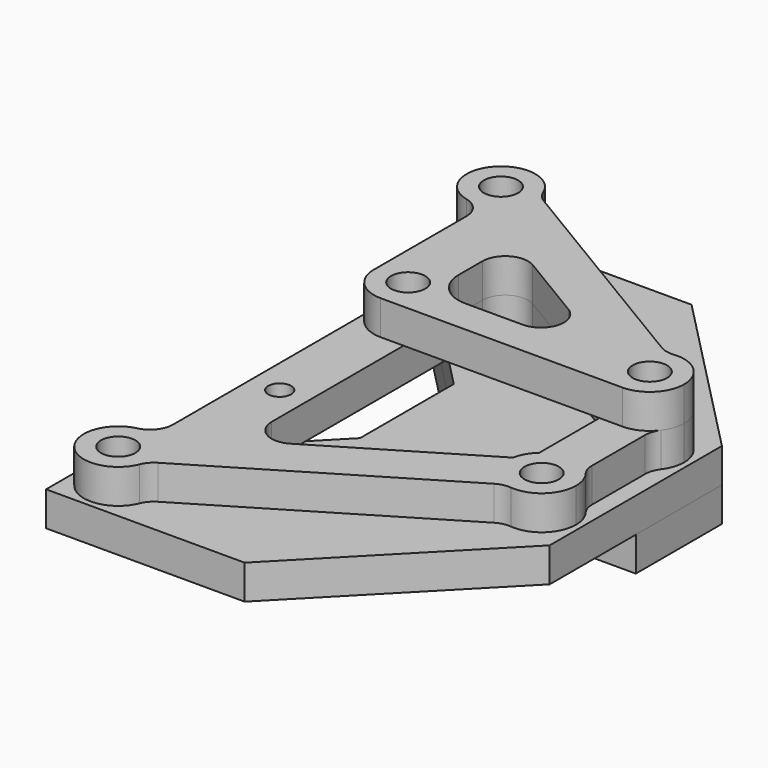
from build123d import *

# Parameters (mm, degrees)
F0_R      = 1.5
F1_DEPTH  = 3
F2_DEPTH  = 3
F3_R      = 1.5
F4_DEPTH  = 3
F5_R      = 2
F6_R      = 1.5
F7_DEPTH  = 3
F8_R      = 3
F9_R      = 1
F10_DEPTH = 3
F11_R     = 1.5
F12_DEPTH = 3


with BuildPart() as f1:
    # F0 (on Top) → F1 (new body)
    with BuildSketch(Plane.XY):
        Polygon((-3.5, 17.40274), (8.5, 5.1184529412), (8.5, 0), (28.5, 0), (28.5, 9.40274), (13.8471349914, 24.40274), (-3.5, 24.40274), align=None)
        with Locations((0, 20.90274)):
            Circle(F0_R, mode=Mode.SUBTRACT)
        with Locations((25, 5.90274)):
            Circle(F0_R, mode=Mode.SUBTRACT)
        Polygon((28.5, 0), (8.5, 0), (8.5, -5.1184529412), (-3.5, -17.40274), (-3.5, -24.40274), (13.8471349914, -24.40274), (28.5, -9.40274), align=None)
        with Locations((0, -20.90274)):
            Circle(F0_R, mode=Mode.SUBTRACT)
        with Locations((25, -5.90274)):
            Circle(F0_R, mode=Mode.SUBTRACT)
    extrude(amount=F1_DEPTH)


with BuildPart() as f2:
    # F0 (on Top) → F2 (new body)
    with BuildSketch(Plane.XY):
        Polygon((-3.5, 17.40274), (8.5, 5.1184529412), (8.5, 0), (28.5, 0), (28.5, 9.40274), (13.8471349914, 24.40274), (-3.5, 24.40274), align=None)
        with Locations((0, 20.90274)):
            Circle(F0_R, mode=Mode.SUBTRACT)
        with Locations((25, 5.90274)):
            Circle(F0_R, mode=Mode.SUBTRACT)
    extrude(amount=-F2_DEPTH)


with BuildPart() as f4:
    # F3 (on face) → F4 (new body)
    with BuildSketch(Plane.XY.offset(3)):
        with BuildLine():
            ThreePointArc((0.8884209613, 18.0373066653), (2.415084148, 19.1230297545), (3, 20.90274))
            ThreePointArc((3, 20.90274), (2.9865709391, 21.1862784022), (2.946403983, 21.4672783682))
            ThreePointArc((2.946403983, 21.4672783682), (-2.5724787771, 22.4462272663), (0.8884209613, 18.0373066653))
        make_face()
        with Locations((0, 20.90274)):
            Circle(F3_R, mode=Mode.SUBTRACT)
        with BuildLine():
            ThreePointArc((3, -20.90274), (2.415084148, -19.1230297545), (0.8884209613, -18.0373066653))
            ThreePointArc((0.8884209613, -18.0373066653), (-2.5724787771, -22.4462272663), (2.946403983, -21.4672783682))
            ThreePointArc((2.946403983, -21.4672783682), (2.9865709391, -21.1862784022), (3, -20.90274))
        make_face()
        with Locations((0, -20.90274)):
            Circle(F3_R, mode=Mode.SUBTRACT)
        with BuildLine():
            Line((27, -3.6666720225), (27, 3.6666720225))
            ThreePointArc((27, 3.6666720225), (25, 2.90274), (23, 3.6666720225))
            Line((23, 3.6666720225), (23, -3.6666720225))
            ThreePointArc((23, -3.6666720225), (25, -2.90274), (27, -3.6666720225))
        make_face()
        with BuildLine():
            ThreePointArc((28, 5.90274), (26.7797102455, 8.317824148), (24.1115790387, 8.7681733347))
            ThreePointArc((24.1115790387, 8.7681733347), (22.4275212229, 7.4462272663), (22.053596017, 5.3382016318))
            ThreePointArc((22.053596017, 5.3382016318), (22.3894002797, 4.424643555), (23, 3.6666720225))
            ThreePointArc((23, 3.6666720225), (25, 2.90274), (27, 3.6666720225))
            ThreePointArc((27, 3.6666720225), (27.7386127875, 4.6779951286), (28, 5.90274))
        make_face()
        with Locations((25, 5.90274)):
            Circle(F3_R, mode=Mode.SUBTRACT)
        with BuildLine():
            ThreePointArc((2.946403983, 21.4672783682), (2.9865709391, 21.1862784022), (3, 20.90274))
            ThreePointArc((3, 20.90274), (2.415084148, 19.1230297545), (0.8884209613, 18.0373066653))
            Line((0.8884209613, 18.0373066653), (5.8884209613, 15.0373066653))
            Line((5.8884209613, 15.0373066653), (22.053596017, 5.3382016318))
            ThreePointArc((22.053596017, 5.3382016318), (22.4275212229, 7.4462272663), (24.1115790387, 8.7681733347))
            Line((24.1115790387, 8.7681733347), (2.946403983, 21.4672783682))
        make_face()
        with BuildLine():
            ThreePointArc((28, -5.90274), (27.7386127875, -4.6779951286), (27, -3.6666720225))
            ThreePointArc((27, -3.6666720225), (25, -2.90274), (23, -3.6666720225))
            ThreePointArc((23, -3.6666720225), (22.3894002797, -4.424643555), (22.053596017, -5.3382016318))
            ThreePointArc((22.053596017, -5.3382016318), (22.4275212229, -7.4462272663), (24.1115790387, -8.7681733347))
            ThreePointArc((24.1115790387, -8.7681733347), (26.7797102455, -8.317824148), (28, -5.90274))
        make_face()
        with Locations((25, -5.90274)):
            Circle(F3_R, mode=Mode.SUBTRACT)
        with BuildLine():
            Line((5.8884209613, -15.0373066653), (0.8884209613, -18.0373066653))
            ThreePointArc((0.8884209613, -18.0373066653), (2.415084148, -19.1230297545), (3, -20.90274))
            ThreePointArc((3, -20.90274), (2.9865709391, -21.1862784022), (2.946403983, -21.4672783682))
            Line((2.946403983, -21.4672783682), (24.1115790387, -8.7681733347))
            ThreePointArc((24.1115790387, -8.7681733347), (22.4275212229, -7.4462272663), (22.053596017, -5.3382016318))
            Line((22.053596017, -5.3382016318), (5.8884209613, -15.0373066653))
        make_face()
        Polygon((5.8884209613, 15.0373066653), (0.8884209613, 18.0373066653), (0.8884209613, 12.9103547647), (5.8884209613, 7.7919018236), align=None)
        Polygon((5.8884209613, -7.7919018236), (0.8884209613, -12.9103547647), (0.8884209613, -18.0373066653), (5.8884209613, -15.0373066653), align=None)
        Polygon((5.8884209613, 7.7919018236), (0.8884209613, 12.9103547647), (0.8884209613, -12.9103547647), (5.8884209613, -7.7919018236), align=None)
    extrude(amount=F4_DEPTH)

    # F5
    f5_edges = [f4.edges().sort_by_distance(p)[0] for p in [
        (0.888421, 18.037307, 4.5),
        (0.888421, -18.037307, 4.5),
        (2.946404, -21.467278, 4.5),
        (24.111579, -8.768173, 4.5),
        (27, 3.666672, 4.5),
        (27, -3.666672, 4.5),
        (24.111579, 8.768173, 4.5),
        (5.888421, -15.037307, 4.5),
        (5.888421, 15.037307, 4.5),
        (2.946404, 21.467278, 4.5),
    ]]
    fillet(f5_edges, radius=F5_R)

    # F9 (on face) → F10 (cut, through all)
    with BuildSketch(Plane.XY.offset(6)):
        with Locations((3.3884209613, 7.5)):
            Circle(F9_R)
        with Locations((3.3884209613, -7.5)):
            Circle(F9_R)
    extrude(amount=-F10_DEPTH, mode=Mode.SUBTRACT)


with BuildPart() as f7:
    # F6 (on face) → F7 (new body)
    with BuildSketch(Plane.XY.offset(6)):
        with BuildLine():
            ThreePointArc((0.8884209613, 18.0373066653), (2.415084148, 19.1230297545), (3, 20.90274))
            ThreePointArc((3, 20.90274), (2.9865709391, 21.1862784022), (2.946403983, 21.4672783682))
            ThreePointArc((2.946403983, 21.4672783682), (2.8763632372, 21.7551099475), (2.7782770793, 22.0346306619))
            ThreePointArc((2.7782770793, 22.0346306619), (-2.2866711137, 22.8446810953), (-0.6669474232, 17.9778158754))
            ThreePointArc((-0.6669474232, 17.9778158754), (0.1146622018, 17.9049320376), (0.8884209613, 18.0373066653))
        make_face()
        with Locations((0, 20.90274)):
            Circle(F6_R, mode=Mode.SUBTRACT)
        with BuildLine():
            ThreePointArc((2.946403983, 21.4672783682), (2.9865709391, 21.1862784022), (3, 20.90274))
            ThreePointArc((3, 20.90274), (2.415084148, 19.1230297545), (0.8884209613, 18.0373066653))
            Line((0.8884209613, 18.0373066653), (5.8884209613, 15.0373066653))
            Line((5.8884209613, 15.0373066653), (8.9174124721, 13.2199117588))
            Line((8.9174124721, 13.2199117588), (14.9210556511, 9.6177258514))
            ThreePointArc((14.9210556511, 9.6177258514), (15.8194939966, 7.3688728362), (13.8920641402, 5.90274))
            Line((13.8920641402, 5.90274), (5.8884209613, 5.90274))
            Line((5.8884209613, 5.90274), (5.8884209613, 2.90274))
            Line((5.8884209613, 2.90274), (25, 2.90274))
            ThreePointArc((25, 2.90274), (22.0338324386, 5.453462805), (24.1115790387, 8.7681733347))
            Line((24.1115790387, 8.7681733347), (23.4565127337, 9.1612131177))
            Line((23.4565127337, 9.1612131177), (3.601470288, 21.0742385851))
            Line((3.601470288, 21.0742385851), (2.946403983, 21.4672783682))
        make_face()
        with BuildLine():
            ThreePointArc((2.7782770793, 22.0346306619), (2.8763632372, 21.7551099475), (2.946403983, 21.4672783682))
            Line((2.946403983, 21.4672783682), (3.601470288, 21.0742385851))
            ThreePointArc((3.601470288, 21.0742385851), (3.1119485941, 21.4876416897), (2.7782770793, 22.0346306619))
        make_face()
        with BuildLine():
            Line((0.8884209613, 16.027866459), (0.8884209613, 18.0373066653))
            ThreePointArc((0.8884209613, 18.0373066653), (0.1146622018, 17.9049320376), (-0.6669474232, 17.9778158754))
            ThreePointArc((-0.6669474232, 17.9778158754), (0.4519527376, 17.2750105503), (0.8884209613, 16.027866459))
        make_face()
        Polygon((5.8884209613, 15.0373066653), (0.8884209613, 18.0373066653), (0.8884209613, 16.027866459), (0.8884209613, 2.90274), (5.8884209613, 2.90274), (5.8884209613, 5.90274), (5.8884209613, 11.5049259074), align=None)
        with BuildLine():
            ThreePointArc((24.6913025467, 8.8868153815), (24.0516433289, 8.9238248488), (23.4565127337, 9.1612131177))
            Line((23.4565127337, 9.1612131177), (24.1115790387, 8.7681733347))
            ThreePointArc((24.1115790387, 8.7681733347), (24.3985084303, 8.8418228317), (24.6913025467, 8.8868153815))
        make_face()
        with BuildLine():
            ThreePointArc((24.6913025467, 8.8868153815), (24.3985084303, 8.8418228317), (24.1115790387, 8.7681733347))
            ThreePointArc((24.1115790387, 8.7681733347), (22.0338324386, 5.453462805), (25, 2.90274))
            ThreePointArc((25, 2.90274), (27.1213203436, 3.7814196564), (28, 5.90274))
            ThreePointArc((28, 5.90274), (27.0092172158, 8.1305295277), (24.6913025467, 8.8868153815))
        make_face()
        with Locations((25, 5.90274)):
            Circle(F6_R, mode=Mode.SUBTRACT)
        with BuildLine():
            Line((8.9174124721, 13.2199117588), (5.8884209613, 15.0373066653))
            Line((5.8884209613, 15.0373066653), (5.8884209613, 11.5049259074))
            ThreePointArc((5.8884209613, 11.5049259074), (6.9030233313, 13.2453257209), (8.9174124721, 13.2199117588))
        make_face()
    extrude(amount=F7_DEPTH)

    # F8
    f8_edges = [f7.edges().sort_by_distance(p)[0] for p in [
        (5.888421, 5.90274, 7.5),
        (0.888421, 2.90274, 7.5),
    ]]
    fillet(f8_edges, radius=F8_R)

    # F11 (on face) → F12 (cut, through all)
    with BuildSketch(Plane.XY.offset(9)):
        with Locations((3.8884209613, 5.90274)):
            Circle(F11_R)
    extrude(amount=-F12_DEPTH, mode=Mode.SUBTRACT)


solid = Compound([f1.part, f2.part, f4.part, f7.part])
